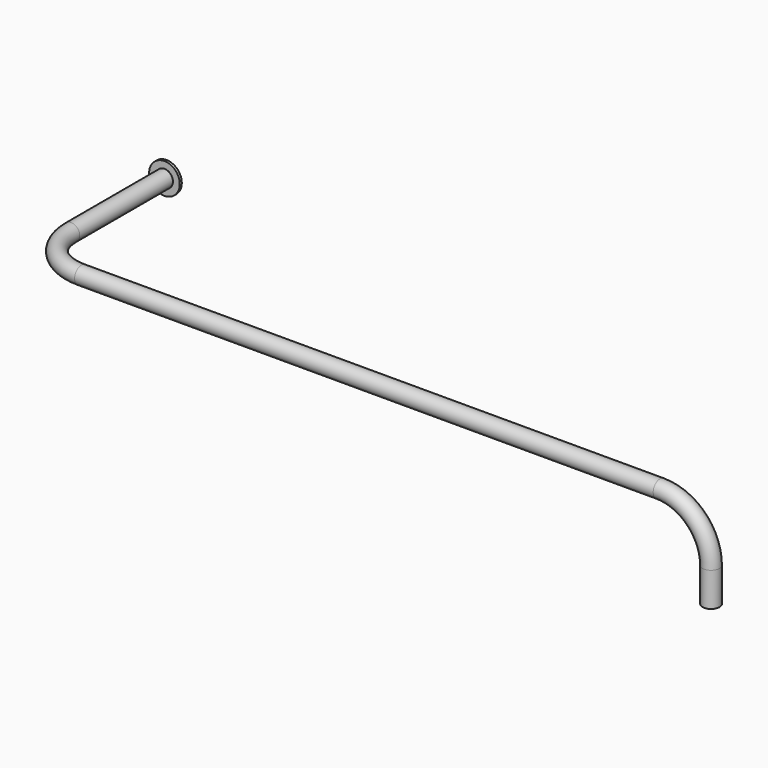
from build123d import *

# Parameters (mm, degrees)
F1_R     = 50
F1_R_2   = 90
F5_DEPTH = 15


with BuildPart() as f4:
    # F4: sweep along a path in F0, F3
    with BuildLine(Plane.XY) as f4_path:
        Line((0, 0), (0, -700))
        ThreePointArc((0, -700), (87.867965644, -912.132034356), (300, -1000))
    with BuildLine(Plane.XZ.offset(1000)) as f4_path_2:
        Line((300, 0), (3700, 0))
        ThreePointArc((3700, 0), (3912.132034356, -87.867965644), (4000, -300))
        Line((4000, -300), (4000, -500))
    # F1 (on Front) → F4 (sweep)
    with BuildSketch(Plane.XZ):
        Circle(F1_R)
    sweep(path=f4_path.line + f4_path_2.line)

    # F1 (on Front) → F5 (join)
    with BuildSketch(Plane.XZ):
        Circle(F1_R_2)
        Circle(F1_R, mode=Mode.SUBTRACT)
    extrude(amount=F5_DEPTH)


solid = f4.part
